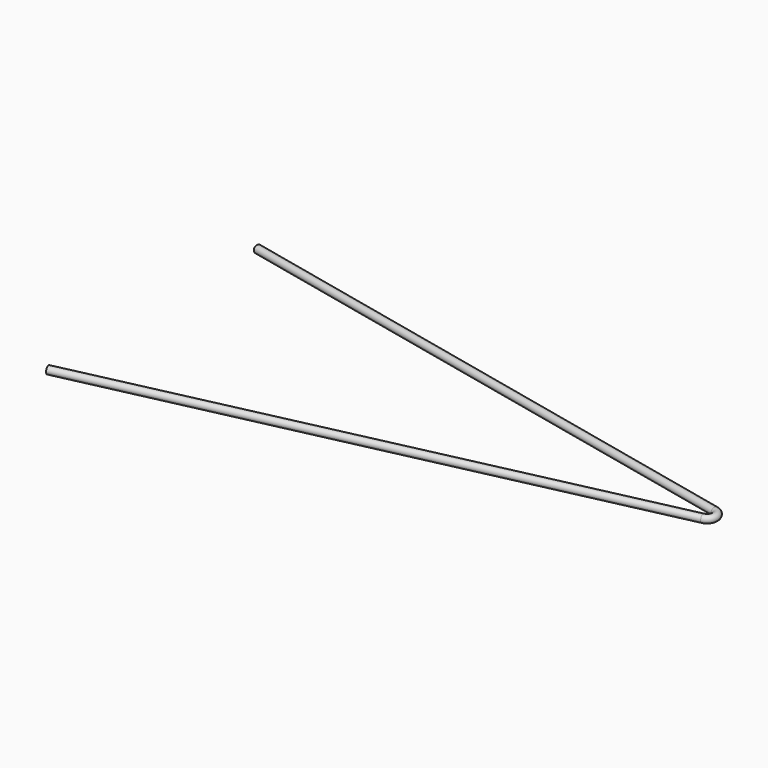
from build123d import *

# Parameters (mm, degrees)
F2_R = 2


with BuildPart() as f3:
    # F3: sweep along a path in F0
    with BuildLine(Plane.XY) as f3_path:
        Line((-312.857143, 69.358759), (-18.157582, 4.025439))
        ThreePointArc((-18.157582, 4.025439), (-14.926825, 0), (-18.157582, -4.025439))
        Line((-18.157582, -4.025439), (-312.857143, -69.358759))
    # F2 (on face) → F3 (sweep)
    with BuildSketch(Plane(origin=(-312.857143, 69.358759, 0), x_dir=(0.21644, 0.976296, 0), z_dir=(0.976296, -0.21644, 0))):
        Circle(F2_R)
    sweep(path=f3_path.line)


solid = f3.part
